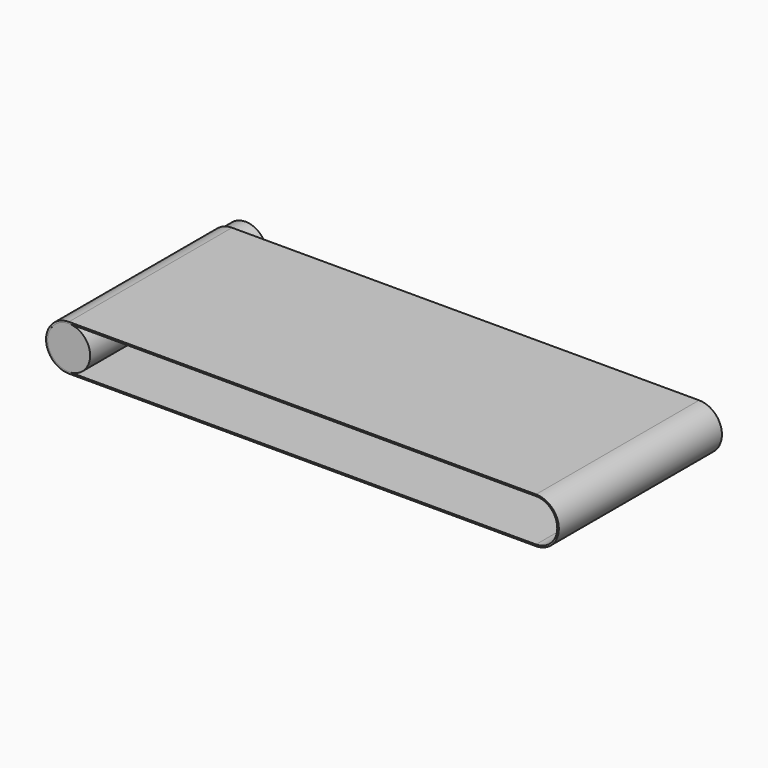
from build123d import *

# Parameters (mm, degrees)
F2_W     = 609.6
F2_H     = 4.7625
F4_DEPTH = 660.4


with BuildPart() as f3:
    # F3: sweep along a path in F0
    with BuildLine(Plane.XZ) as f3_path:
        Line((1397, 63.5), (0, 63.5))
        ThreePointArc((0, 63.5), (-63.5, 0), (0, -63.5))
        Line((0, -63.5), (1397, -63.5))
        ThreePointArc((1397, -63.5), (1460.5, 0), (1397, 63.5))
    # F2 (on face) → F3 (sweep)
    with BuildSketch(Plane(origin=(1397, 0, 0), x_dir=(0, -1, 0), z_dir=(-1, 0, 0))):
        with Locations((-304.8, 65.88125)):
            Rectangle(F2_W, F2_H)
    sweep(path=f3_path.line)


with BuildPart() as f4:
    # F0 (on Front) → F4 (new body)
    with BuildSketch(Plane.XZ):
        with BuildLine():
            ThreePointArc((0, -63.5), (63.5, 0), (0, 63.5))
            ThreePointArc((0, 63.5), (-63.5, 0), (0, -63.5))
        make_face()
    extrude(amount=-F4_DEPTH)


solid = Compound([f3.part, f4.part])
